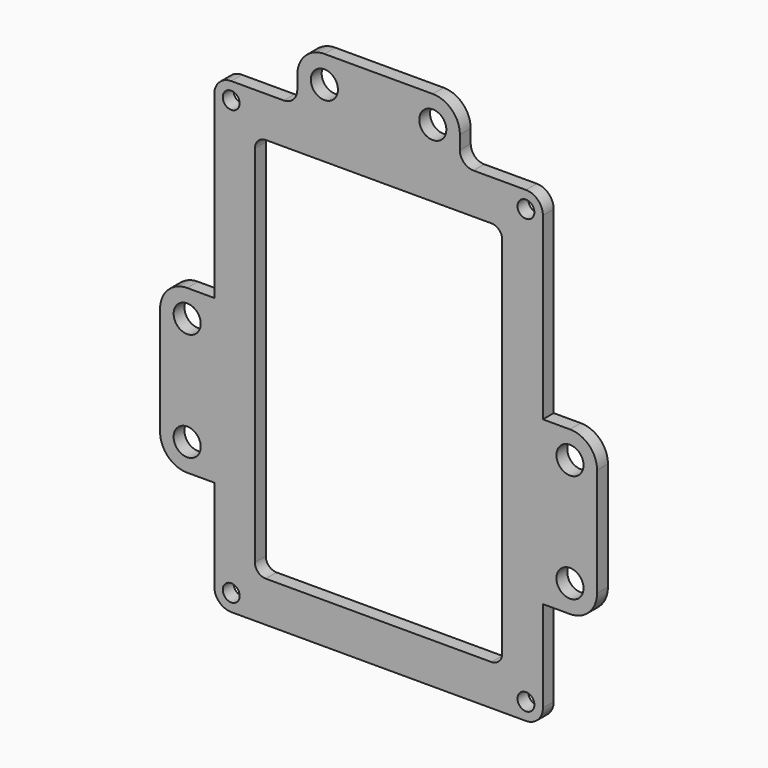
from build123d import *

# Parameters (mm, degrees)
F0_R     = 3.96875
F0_R_2   = 6.35
F0_W     = 115.8875
F0_H     = 180.975
F1_DEPTH = 6.35
F2_R     = 5.08


with BuildPart() as f1:
    # F0 (on Front) → F1 (new body)
    with BuildSketch(Plane.XZ):
        with BuildLine():
            Line((-44.45, 109.5375), (-69.05625, 109.5375))
            ThreePointArc((-69.05625, 109.5375), (-74.66891, 107.21266), (-76.99375, 101.6))
            Line((-76.99375, 101.6), (-76.99375, 17.4625))
            Line((-76.99375, 17.4625), (-89.69375, 17.4625))
            ThreePointArc((-89.69375, 17.4625), (-98.674006, 13.742756), (-102.39375, 4.7625))
            Line((-102.39375, 4.7625), (-102.39375, -46.0375))
            ThreePointArc((-102.39375, -46.0375), (-98.674006, -55.017756), (-89.69375, -58.7375))
            Line((-89.69375, -58.7375), (-76.99375, -58.7375))
            Line((-76.99375, -58.7375), (-76.99375, -101.6))
            ThreePointArc((-76.99375, -101.6), (-74.66891, -107.21266), (-69.05625, -109.5375))
            Line((-69.05625, -109.5375), (69.05625, -109.5375))
            ThreePointArc((69.05625, -109.5375), (74.66891, -107.21266), (76.99375, -101.6))
            Line((76.99375, -101.6), (76.99375, -58.7375))
            Line((76.99375, -58.7375), (89.69375, -58.7375))
            ThreePointArc((89.69375, -58.7375), (98.674006, -55.017756), (102.39375, -46.0375))
            Line((102.39375, -46.0375), (102.39375, 4.7625))
            ThreePointArc((102.39375, 4.7625), (98.674006, 13.742756), (89.69375, 17.4625))
            Line((89.69375, 17.4625), (76.99375, 17.4625))
            Line((76.99375, 17.4625), (76.99375, 101.6))
            ThreePointArc((76.99375, 101.6), (74.66891, 107.21266), (69.05625, 109.5375))
            Line((69.05625, 109.5375), (44.45, 109.5375))
            ThreePointArc((44.45, 109.5375), (39.959872, 111.397372), (38.1, 115.8875))
            Line((38.1, 115.8875), (38.1, 122.2375))
            ThreePointArc((38.1, 122.2375), (34.380256, 131.217756), (25.4, 134.9375))
            Line((25.4, 134.9375), (-25.4, 134.9375))
            ThreePointArc((-25.4, 134.9375), (-34.380256, 131.217756), (-38.1, 122.2375))
            Line((-38.1, 122.2375), (-38.1, 115.8875))
            ThreePointArc((-38.1, 115.8875), (-39.959872, 111.397372), (-44.45, 109.5375))
        make_face()
        with Locations((-69.05625, -101.6)):
            Circle(F0_R, mode=Mode.SUBTRACT)
        with Locations((-89.69375, -46.0375)):
            Circle(F0_R_2, mode=Mode.SUBTRACT)
        with Locations((-89.69375, 4.7625)):
            Circle(F0_R_2, mode=Mode.SUBTRACT)
        with Locations((69.05625, -101.6)):
            Circle(F0_R, mode=Mode.SUBTRACT)
        Rectangle(F0_W, F0_H, mode=Mode.SUBTRACT)
        with Locations((89.69375, -46.0375)):
            Circle(F0_R_2, mode=Mode.SUBTRACT)
        with Locations((89.69375, 4.7625)):
            Circle(F0_R_2, mode=Mode.SUBTRACT)
        with Locations((-69.05625, 101.6)):
            Circle(F0_R, mode=Mode.SUBTRACT)
        with Locations((-25.4, 122.2375)):
            Circle(F0_R_2, mode=Mode.SUBTRACT)
        with Locations((25.4, 122.2375)):
            Circle(F0_R_2, mode=Mode.SUBTRACT)
        with Locations((69.05625, 101.6)):
            Circle(F0_R, mode=Mode.SUBTRACT)
    extrude(amount=F1_DEPTH)

    # F2
    f2_edges = [f1.edges().sort_by_distance(p)[0] for p in [
        (-57.94375, -3.175, 90.4875),
        (57.94375, -3.175, 90.4875),
        (57.94375, -3.175, -90.4875),
        (-57.94375, -3.175, -90.4875),
    ]]
    fillet(f2_edges, radius=F2_R)


solid = f1.part
